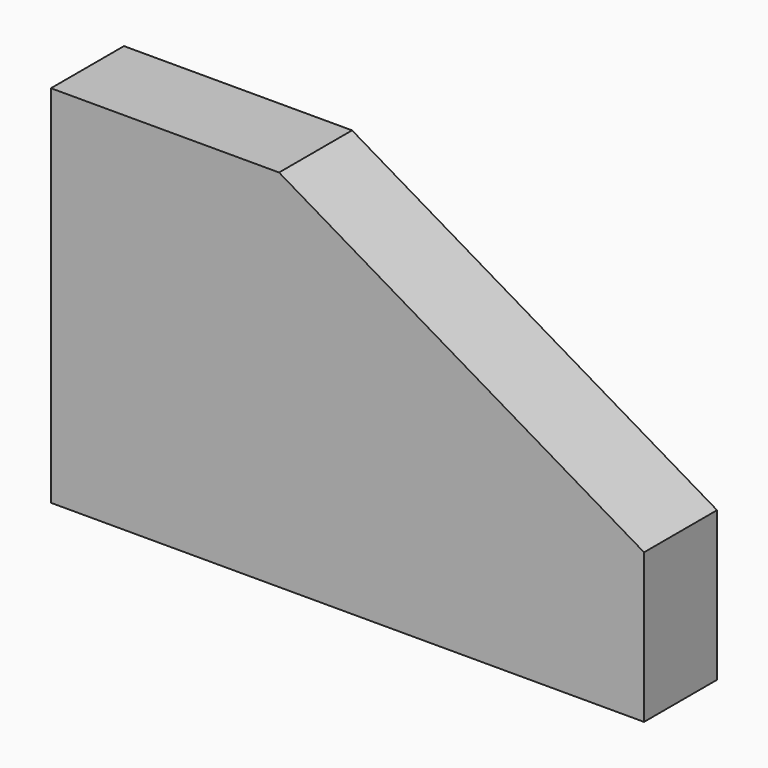
from build123d import *

# Parameters (mm, degrees)
F1_DEPTH = 254


with BuildPart() as f1:
    # F0 (on Front) → F1 (new body)
    with BuildSketch(Plane.XZ):
        Polygon((-313.071324, -329.666568), (-567.071324, -329.666568), (-567.071324, -837.666568), (-313.071324, -837.666568), (-313.071324, -765.095145), (-313.071324, -638.095145), (-313.071324, -438.523722), align=None)
        Polygon((-313.071324, -638.095145), (-313.071324, -765.095145), (448.928676, -765.095145), (650.149455, -765.095145), (650.149455, -638.095145), align=None)
        Polygon((67.928676, 178.333432), (-567.071324, 178.333432), (-567.071324, -329.666568), (-313.071324, -329.666568), (-313.071324, -438.523722), (-313.071324, -638.095145), (650.149455, -638.095145), (650.149455, -765.095145), (448.928676, -765.095145), (-313.071324, -765.095145), (-313.071324, -837.666568), (1083.928676, -837.666568), (1083.928676, -422.030174), align=None)
    extrude(amount=F1_DEPTH)


solid = f1.part
